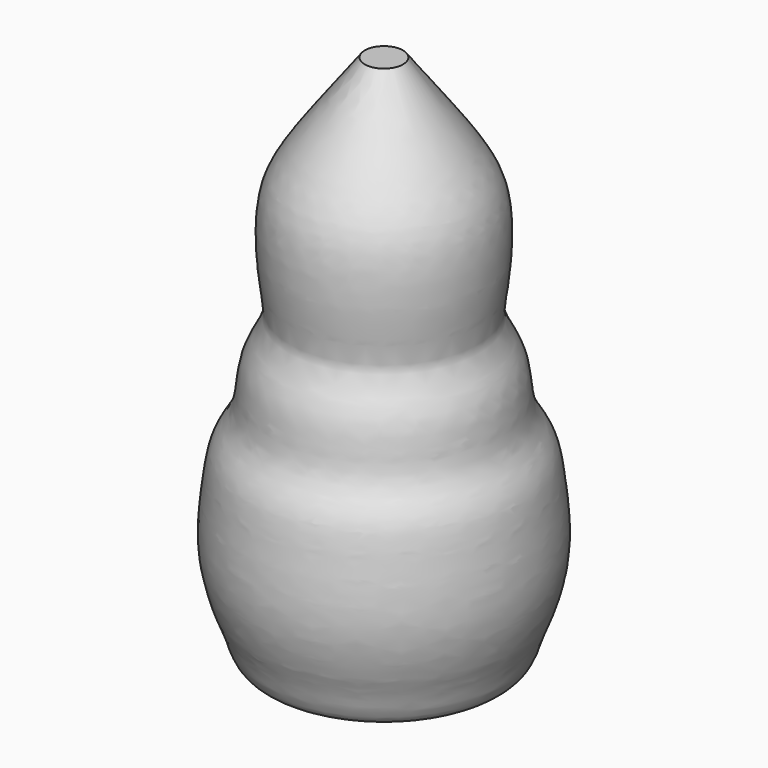
from build123d import *


with BuildPart() as f2:
    # F1 (on Front) → F2 (revolve)
    with BuildSketch(Plane.XZ):
        with BuildLine():
            add(Edge.make_bspline(
                [(0, 0), (-2.558485125, 0.395776354), (-6.9045086038, 1.0680700131), (-8.0595240667, -2.8702801534), (-11.6394478145, -3.8151006584), (-14.9442539859, -3.5734947503), (-15.8819509821, 0.1936562407), (-17.0393919551, 2.6284300657), (-18.8660052149, 8.7735207245), (-17.9744217208, 16.1910100605), (-17.3177646868, 20.8638258734), (-14.5111345729, 24.0118573364), (-14.7804824716, 29.995955202), (-11.4404246591, 34.2169525566), (-12.4868798156, 38.2992777733), (-13.0828575167, 47.4075037389), (-10.6810673318, 52.4345871447), (-6.6017050566, 57.9150418432), (-3.8263618036, 61.6097107759), (-2.4184382055, 63.48400563)],
                knots=[0, 0, 0, 0, 0.0669608103, 0.1137443603, 0.1626761867, 0.2074665105, 0.2556261669, 0.2998031571, 0.3655026924, 0.4385220231, 0.4947464661, 0.5466618612, 0.6097914366, 0.6679815222, 0.7209517227, 0.7994803854, 0.8619560636, 0.9299707107, 1, 1, 1, 1], degree=3))
            Line((0, 0), (0, 63.48400563))
            Line((0, 63.48400563), (-2.4184382055, 63.48400563))
        make_face()
    revolve(axis=Axis((0, 0, 6.8522430956), (0, 0, -1)))


solid = f2.part
